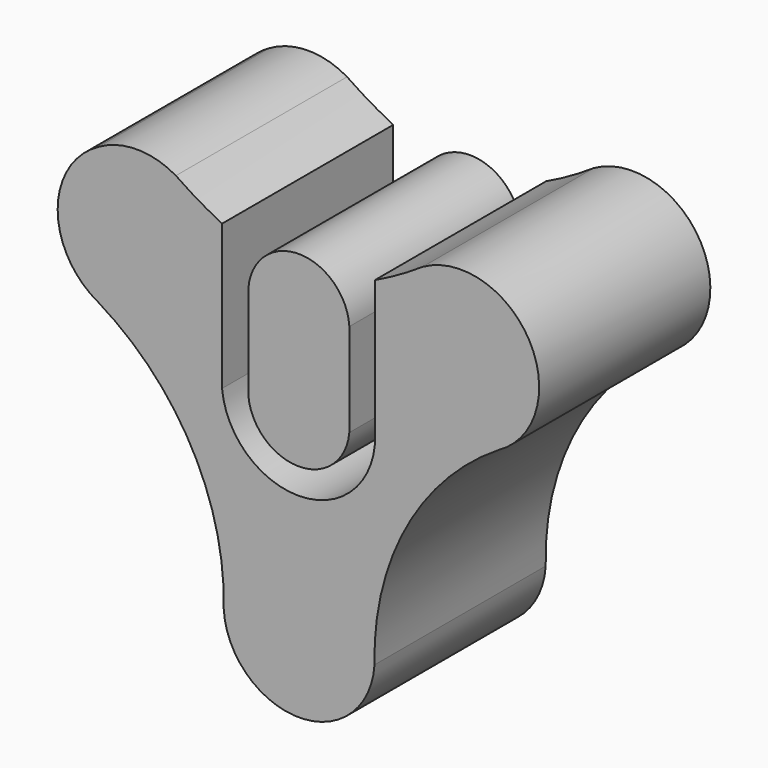
from build123d import *

# Parameters (mm, degrees)
F1_DEPTH = 25.4


with BuildPart() as f1:
    # F0 (on Front) → F1 (new body)
    with BuildSketch(Plane.XZ):
        with BuildLine():
            Line((-8.954637, 31.483312), (-8.954637, 48.709152))
            ThreePointArc((-8.954637, 48.709152), (-11.750756, 50.231074), (-14.435124, 51.942417))
            ThreePointArc((-14.435124, 51.942417), (-19.045944, 53.186787), (-23.656765, 51.942417))
            ThreePointArc((-23.656765, 51.942417), (-28.465686, 43.832672), (-23.656765, 35.722926))
            ThreePointArc((-23.656765, 35.722926), (-12.537887, 24.114179), (-8.753396, 8.491436))
            ThreePointArc((-8.753396, 8.491436), (0.193475, 0.080163), (9.140345, 8.491436))
            ThreePointArc((9.140345, 8.491436), (12.881936, 24.056901), (23.84492, 35.722926))
            ThreePointArc((23.84492, 35.722926), (27.523004, 48.35906), (14.859682, 51.942417))
            ThreePointArc((14.859682, 51.942417), (12.080111, 50.221008), (9.181223, 48.709152))
            Line((9.181223, 48.709152), (9.181223, 31.483312))
            ThreePointArc((9.181223, 31.483312), (0.113293, 23.227784), (-8.954637, 31.483312))
        make_face()
        with BuildLine():
            ThreePointArc((6.153792, 42.873443), (0.158365, 48.515675), (-5.837062, 42.873443))
            Line((-5.837062, 42.873443), (-5.837062, 31.795798))
            ThreePointArc((-5.837062, 31.795798), (0.158365, 26.300666), (6.153792, 31.795798))
            Line((6.153792, 31.795798), (6.153792, 42.873443))
        make_face()
    extrude(amount=F1_DEPTH)


solid = f1.part
